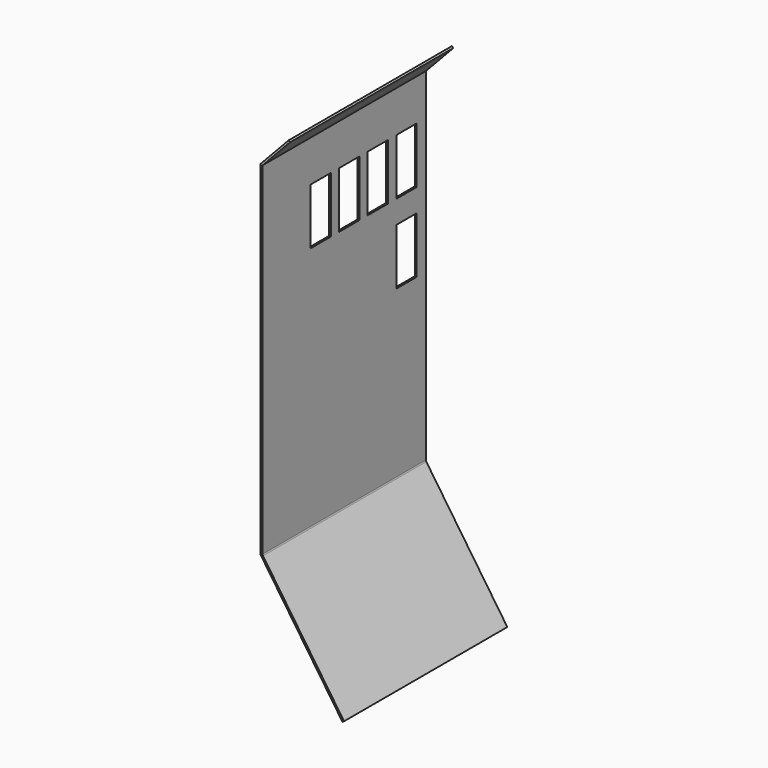
from build123d import *

# Parameters (mm, degrees)
F1_DEPTH = 160
F2_W     = 20
F2_H     = 44
F3_DEPTH = 65.375966


with BuildPart() as f1:
    # F0 (on Front) → F1 (new body)
    with BuildSketch(Plane.XZ):
        with BuildLine():
            Line((0, 270), (0, 0))
            Line((0, 0), (64.134226, -94.399233))
            Line((64.134226, -94.399233), (65.374966, -93.556283))
            Line((65.374966, -93.556283), (1.845681, -0.047463))
            ThreePointArc((1.845681, -0.047463), (1.588373, 0.488525), (1.5, 1.076471))
            Line((1.5, 1.076471), (1.5, 269.405426))
            Line((1.5, 269.405426), (23.016468, 292.282105))
            Line((23.016468, 292.282105), (21.923822, 293.309784))
            Line((21.923822, 293.309784), (0, 270))
        make_face()
    extrude(amount=F1_DEPTH)

    # F2 (on face) → F3 (cut, through all)
    with BuildSketch(Plane(origin=(0, 0, 0), x_dir=(0, -1, 0), z_dir=(-1, 0, 0))):
        with Locations((19, 215)):
            Rectangle(F2_W, F2_H)
        with Locations((47, 215)):
            Rectangle(F2_W, F2_H)
        with Locations((75, 215)):
            Rectangle(F2_W, F2_H)
        with Locations((103, 215)):
            Rectangle(F2_W, F2_H)
        with Locations((19, 153)):
            Rectangle(F2_W, F2_H)
    extrude(amount=-F3_DEPTH, mode=Mode.SUBTRACT)


solid = f1.part
